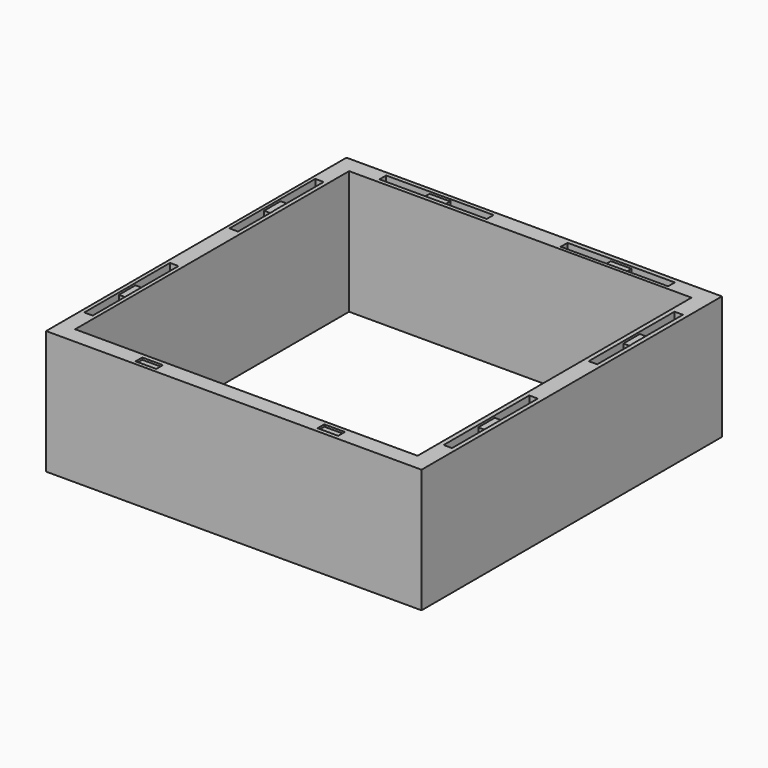
from build123d import *

# Parameters (mm, degrees)
F0_W     = 4.0655732155
F0_H     = 10
F0_W_2   = 10
F0_H_2   = 4.0655732155
F1_DEPTH = 60
F2_DEPTH = 10
F3_DEPTH = 1


with BuildPart() as f1:
    # F0 (on Top) → F1 (new body)
    with BuildSketch(Plane.XY):
        Polygon((-81.7574552458, 91.9649731191), (-85.0374214202, 91.9649731191), (-85.0374214202, 87.5400633349), (-85.0374214202, 55.211449102), (-85.0374214202, -53.3124324366), (-85.0374214202, -86.6156537372), (-85.0374214202, -90.0350268809), (-80.8175235253, -90.0350268809), (-48.580678454, -90.0350268809), (96.9625785798, -90.0350268809), (96.9625785798, 91.9649731191), align=None)
        Polygon((-33.0721171855, -88.258663221), (-43.0721171855, -88.258663221), (-48.580678454, -88.258663221), (-64.0721171855, -88.258663221), (-64.0721171855, -84.1930900056), (-43.0721171855, -84.1930900056), (-33.0721171855, -84.1930900056), (-33.0721171855, -84.127867623), (-12.0721171855, -84.127867623), (-12.0721171855, -88.258663221), align=None, mode=Mode.SUBTRACT)
        Polygon((-79.1745140415, -38.1238959565), (-79.1745140415, -48.1238959565), (-79.1745140415, -53.3124324366), (-79.1745140415, -69.1238959565), (-83.240087257, -69.1238959565), (-83.240087257, -53.3124324366), (-83.240087257, -48.1238959565), (-83.240087257, -38.1238959565), (-83.3053096395, -38.1238959565), (-83.3053096395, -17.1238959565), (-79.1745140415, -17.1238959565), align=None, mode=Mode.SUBTRACT)
        Polygon((44.9625785798, -83.9851424098), (54.9625785798, -83.9851424098), (60.1511150599, -83.9851424098), (75.9625785798, -83.9851424098), (75.9625785798, -88.0507156253), (60.1511150599, -88.0507156253), (54.9625785798, -88.0507156253), (44.9625785798, -88.0507156253), (44.9625785798, -88.1159380078), (23.9625785798, -88.1159380078), (23.9625785798, -83.9851424098), align=None, mode=Mode.SUBTRACT)
        Polygon((94.8935046063, -37.9912286836), (94.8935046063, -47.9912286836), (94.8935046063, -53.1797651637), (94.8935046063, -68.9912286836), (90.8279313908, -68.9912286836), (90.8279313908, -53.1797651637), (90.8279313908, -47.9912286836), (90.8279313908, -37.9912286836), (90.7627090082, -37.9912286836), (90.7627090082, -16.9912286836), (94.8935046063, -16.9912286836), align=None, mode=Mode.SUBTRACT)
        Polygon((-83.4004647296, 40.0229126219), (-83.4004647296, 50.0229126219), (-83.4004647296, 55.211449102), (-83.4004647296, 71.0229126219), (-79.3348915141, 71.0229126219), (-79.3348915141, 55.211449102), (-79.3348915141, 50.0229126219), (-79.3348915141, 40.0229126219), (-79.2696691316, 40.0229126219), (-79.2696691316, 19.0229126219), (-83.4004647296, 19.0229126219), align=None, mode=Mode.SUBTRACT)
        Polygon((-77.3635556847, 55.211449102), (-77.3635556847, 83.9649731191), (-48.3621415186, 83.9649731191), (61.3571461726, 83.9649731191), (88.6364443153, 83.9649731191), (88.6364443153, -82.0350268809), (-77.3635556847, -82.0350268809), (-77.3635556847, -53.3124324366), align=None, mode=Mode.SUBTRACT)
        Polygon((-33.1736050386, 85.8970538511), (-43.1736050386, 85.8970538511), (-48.3621415186, 85.8970538511), (-64.1736050386, 85.8970538511), (-64.1736050386, 89.9626270666), (-48.3621415186, 89.9626270666), (-43.1736050386, 89.9626270666), (-33.1736050386, 89.9626270666), (-33.1736050386, 90.0278494491), (-12.1736050386, 90.0278494491), (-12.1736050386, 85.8970538511), align=None, mode=Mode.SUBTRACT)
        Polygon((90.7789625961, 39.9640733615), (90.7789625961, 49.9640733615), (90.7789625961, 55.1526098416), (90.7789625961, 70.9640733615), (94.8445358116, 70.9640733615), (94.8445358116, 55.1526098416), (94.8445358116, 49.9640733615), (94.8445358116, 39.9640733615), (94.9097581941, 39.9640733615), (94.9097581941, 18.9640733615), (90.7789625961, 18.9640733615), align=None, mode=Mode.SUBTRACT)
        Polygon((44.9113614697, 89.7324799762), (54.9113614697, 89.7324799762), (61.3571461726, 89.7324799762), (75.9113614697, 89.7324799762), (75.9113614697, 85.6669067607), (61.3571461726, 85.6669067607), (54.9113614697, 85.6669067607), (44.9113614697, 85.6669067607), (44.9113614697, 85.6016843782), (23.9113614697, 85.6016843782), (23.9113614697, 89.7324799762), align=None, mode=Mode.SUBTRACT)
        Polygon((-79.3348915141, 40.0229126219), (-83.4004647296, 40.0229126219), (-83.4004647296, 19.0229126219), (-79.2696691316, 19.0229126219), (-79.2696691316, 40.0229126219), align=None)
        with Locations((-81.3676781219, 45.0229126219)):
            Rectangle(F0_W, F0_H)
        Polygon((-83.4004647296, 55.211449102), (-83.4004647296, 50.0229126219), (-79.3348915141, 50.0229126219), (-79.3348915141, 55.211449102), (-79.3348915141, 71.0229126219), (-83.4004647296, 71.0229126219), align=None)
        Polygon((-48.3621415186, 85.8970538511), (-43.1736050386, 85.8970538511), (-43.1736050386, 89.9626270666), (-48.3621415186, 89.9626270666), (-64.1736050386, 89.9626270666), (-64.1736050386, 85.8970538511), align=None)
        with Locations((-38.1736050386, 87.9298404588)):
            Rectangle(F0_W_2, F0_H_2)
        Polygon((-33.1736050386, 89.9626270666), (-33.1736050386, 85.8970538511), (-12.1736050386, 85.8970538511), (-12.1736050386, 90.0278494491), (-33.1736050386, 90.0278494491), align=None)
        Polygon((44.9113614697, 85.6669067607), (44.9113614697, 89.7324799762), (23.9113614697, 89.7324799762), (23.9113614697, 85.6016843782), (44.9113614697, 85.6016843782), align=None)
        with Locations((49.9113614697, 87.6996933685)):
            Rectangle(F0_W_2, F0_H_2)
        Polygon((61.3571461726, 89.7324799762), (54.9113614697, 89.7324799762), (54.9113614697, 85.6669067607), (61.3571461726, 85.6669067607), (75.9113614697, 85.6669067607), (75.9113614697, 89.7324799762), align=None)
        Polygon((90.7789625961, 55.1526098416), (90.7789625961, 49.9640733615), (94.8445358116, 49.9640733615), (94.8445358116, 55.1526098416), (94.8445358116, 70.9640733615), (90.7789625961, 70.9640733615), align=None)
        with Locations((92.8117492038, 44.9640733615)):
            Rectangle(F0_W, F0_H)
        Polygon((94.8445358116, 39.9640733615), (90.7789625961, 39.9640733615), (90.7789625961, 18.9640733615), (94.9097581941, 18.9640733615), (94.9097581941, 39.9640733615), align=None)
        Polygon((90.8279313908, -37.9912286836), (94.8935046063, -37.9912286836), (94.8935046063, -16.9912286836), (90.7627090082, -16.9912286836), (90.7627090082, -37.9912286836), align=None)
        with Locations((92.8607179985, -42.9912286836)):
            Rectangle(F0_W, F0_H)
        Polygon((94.8935046063, -53.1797651637), (94.8935046063, -47.9912286836), (90.8279313908, -47.9912286836), (90.8279313908, -53.1797651637), (90.8279313908, -68.9912286836), (94.8935046063, -68.9912286836), align=None)
        Polygon((60.1511150599, -83.9851424098), (54.9625785798, -83.9851424098), (54.9625785798, -88.0507156253), (60.1511150599, -88.0507156253), (75.9625785798, -88.0507156253), (75.9625785798, -83.9851424098), align=None)
        with Locations((49.9625785798, -86.0179290175)):
            Rectangle(F0_W_2, F0_H_2)
        Polygon((44.9625785798, -88.0507156253), (44.9625785798, -83.9851424098), (23.9625785798, -83.9851424098), (23.9625785798, -88.1159380078), (44.9625785798, -88.1159380078), align=None)
        Polygon((-33.0721171855, -84.1930900056), (-33.0721171855, -88.258663221), (-12.0721171855, -88.258663221), (-12.0721171855, -84.127867623), (-33.0721171855, -84.127867623), align=None)
        with Locations((-38.0721171855, -86.2258766133)):
            Rectangle(F0_W_2, F0_H_2)
        Polygon((-48.580678454, -88.258663221), (-43.0721171855, -88.258663221), (-43.0721171855, -84.1930900056), (-64.0721171855, -84.1930900056), (-64.0721171855, -88.258663221), align=None)
        Polygon((-79.1745140415, -53.3124324366), (-79.1745140415, -48.1238959565), (-83.240087257, -48.1238959565), (-83.240087257, -53.3124324366), (-83.240087257, -69.1238959565), (-79.1745140415, -69.1238959565), align=None)
        with Locations((-81.2073006492, -43.1238959565)):
            Rectangle(F0_W, F0_H)
        Polygon((-83.240087257, -38.1238959565), (-79.1745140415, -38.1238959565), (-79.1745140415, -17.1238959565), (-83.3053096395, -17.1238959565), (-83.3053096395, -38.1238959565), align=None)
    extrude(amount=-F1_DEPTH)

    # F0 (on Top) → F2 (cut)
    with BuildSketch(Plane.XY):
        Polygon((-83.4004647296, 55.211449102), (-83.4004647296, 50.0229126219), (-79.3348915141, 50.0229126219), (-79.3348915141, 55.211449102), (-79.3348915141, 71.0229126219), (-83.4004647296, 71.0229126219), align=None)
        Polygon((-79.3348915141, 40.0229126219), (-83.4004647296, 40.0229126219), (-83.4004647296, 19.0229126219), (-79.2696691316, 19.0229126219), (-79.2696691316, 40.0229126219), align=None)
        Polygon((90.7789625961, 55.1526098416), (90.7789625961, 49.9640733615), (94.8445358116, 49.9640733615), (94.8445358116, 55.1526098416), (94.8445358116, 70.9640733615), (90.7789625961, 70.9640733615), align=None)
        Polygon((94.8445358116, 39.9640733615), (90.7789625961, 39.9640733615), (90.7789625961, 18.9640733615), (94.9097581941, 18.9640733615), (94.9097581941, 39.9640733615), align=None)
        Polygon((-83.240087257, -38.1238959565), (-79.1745140415, -38.1238959565), (-79.1745140415, -17.1238959565), (-83.3053096395, -17.1238959565), (-83.3053096395, -38.1238959565), align=None)
        Polygon((-79.1745140415, -53.3124324366), (-79.1745140415, -48.1238959565), (-83.240087257, -48.1238959565), (-83.240087257, -53.3124324366), (-83.240087257, -69.1238959565), (-79.1745140415, -69.1238959565), align=None)
        Polygon((94.8935046063, -53.1797651637), (94.8935046063, -47.9912286836), (90.8279313908, -47.9912286836), (90.8279313908, -53.1797651637), (90.8279313908, -68.9912286836), (94.8935046063, -68.9912286836), align=None)
        Polygon((90.8279313908, -37.9912286836), (94.8935046063, -37.9912286836), (94.8935046063, -16.9912286836), (90.7627090082, -16.9912286836), (90.7627090082, -37.9912286836), align=None)
        Polygon((61.3571461726, 89.7324799762), (54.9113614697, 89.7324799762), (54.9113614697, 85.6669067607), (61.3571461726, 85.6669067607), (75.9113614697, 85.6669067607), (75.9113614697, 89.7324799762), align=None)
        Polygon((44.9113614697, 85.6669067607), (44.9113614697, 89.7324799762), (23.9113614697, 89.7324799762), (23.9113614697, 85.6016843782), (44.9113614697, 85.6016843782), align=None)
        Polygon((-33.1736050386, 89.9626270666), (-33.1736050386, 85.8970538511), (-12.1736050386, 85.8970538511), (-12.1736050386, 90.0278494491), (-33.1736050386, 90.0278494491), align=None)
        Polygon((-48.3621415186, 85.8970538511), (-43.1736050386, 85.8970538511), (-43.1736050386, 89.9626270666), (-48.3621415186, 89.9626270666), (-64.1736050386, 89.9626270666), (-64.1736050386, 85.8970538511), align=None)
    extrude(amount=-F2_DEPTH, mode=Mode.SUBTRACT)

    # F0 (on Top) → F3 (cut)
    with BuildSketch(Plane.XY):
        with Locations((-81.3676781219, 45.0229126219)):
            Rectangle(F0_W, F0_H)
        with Locations((-81.2073006492, -43.1238959565)):
            Rectangle(F0_W, F0_H)
        with Locations((92.8607179985, -42.9912286836)):
            Rectangle(F0_W, F0_H)
        with Locations((92.8117492038, 44.9640733615)):
            Rectangle(F0_W, F0_H)
        with Locations((49.9113614697, 87.6996933685)):
            Rectangle(F0_W_2, F0_H_2)
        with Locations((-38.1736050386, 87.9298404588)):
            Rectangle(F0_W_2, F0_H_2)
        with Locations((-38.0721171855, -86.2258766133)):
            Rectangle(F0_W_2, F0_H_2)
        with Locations((49.9625785798, -86.0179290175)):
            Rectangle(F0_W_2, F0_H_2)
    extrude(amount=-F3_DEPTH, mode=Mode.SUBTRACT)


solid = f1.part
